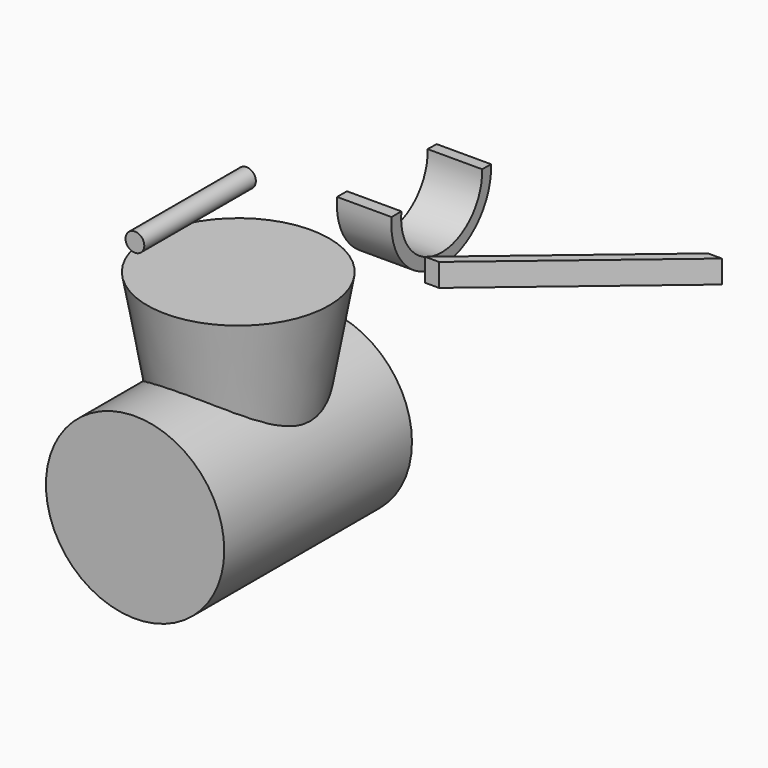
from build123d import *

# Parameters (mm, degrees)
F0_R          = 63.6009786396
F1_DEPTH      = 76.2
F1_TAPER      = 10
F2_R          = 62.3611729576
F3_DEPTH      = 127
F3_DEPTH_BACK = 37.084
F4_R          = 6.5611651664
F5_DEPTH      = 89.916
F5_DEPTH_BACK = 7.62
F7_DEPTH      = 16.002
F9_DEPTH      = 38.1


with BuildPart() as f1:
    # F0 (on Top) → F1 (new body)
    with BuildSketch(Plane.XY):
        with Locations((-47.5703850389, -35.5356149375)):
            Circle(F0_R)
    extrude(amount=-F1_DEPTH, taper=F1_TAPER)


with BuildPart() as f3:
    # F2 (on Front) → F3 (new body, two sides)
    with BuildSketch(Plane.XZ) as f3_sk:
        with Locations((-46.5486980975, -113.6368736625)):
            Circle(F2_R)
    extrude(amount=F3_DEPTH)
    extrude(f3_sk.sketch, amount=-F3_DEPTH_BACK)


with BuildPart() as f5:
    # F4 (on Front) → F5 (new body, two sides)
    with BuildSketch(Plane.XZ) as f5_sk:
        with Locations((-76.3366222382, 31.0949012637)):
            Circle(F4_R)
    extrude(amount=F5_DEPTH)
    extrude(f5_sk.sketch, amount=-F5_DEPTH_BACK)


with BuildPart() as f7:
    # F6 (on Top) → F7 (new body)
    with BuildSketch(Plane.XY):
        Polygon((40.1048237091, 18.1659460068), (49.8731993139, 18.1659460068), (168.0032251769, 117.8109869361), (158.2348495722, 117.8109869361), align=None)
    extrude(amount=F7_DEPTH)


with BuildPart() as f9:
    # F8 (on Right) → F9 (new body)
    with BuildSketch(Plane.YZ):
        with BuildLine():
            ThreePointArc((70.5356970429, 47.9614660144), (33.7812948817, 11.1151143445), (0, 50.7050603628))
            Line((0, 50.7050603628), (-8.6174700409, 50.6955124438))
            ThreePointArc((-8.6174700409, 50.6955124438), (33.3848422189, 2.8508487885), (78.4533694386, 47.8189922869))
            Line((78.4533694386, 47.8189922869), (70.5356970429, 47.9614660144))
        make_face()
    extrude(amount=F9_DEPTH)


solid = Compound([f1.part, f3.part, f5.part, f7.part, f9.part])
